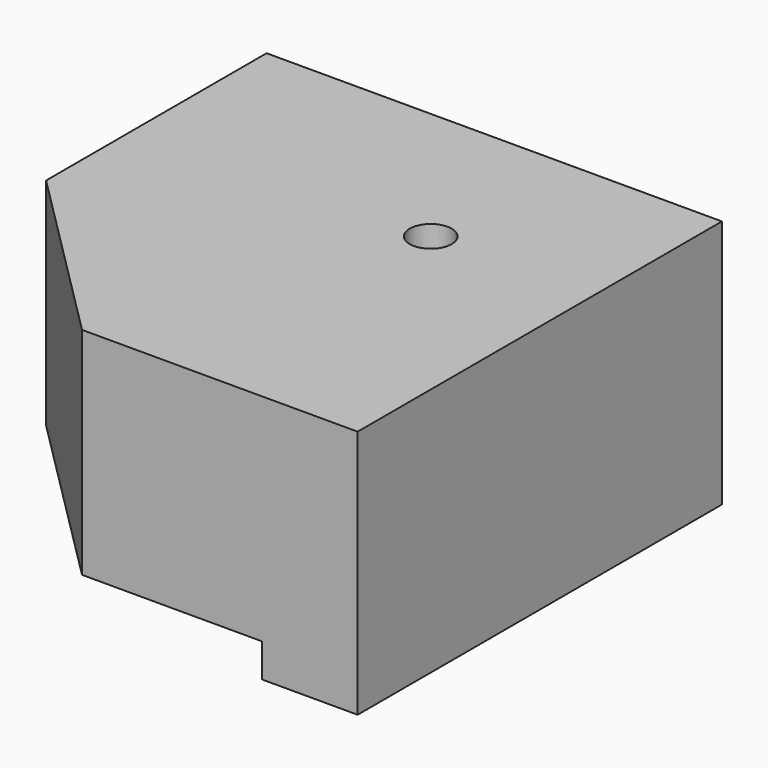
from build123d import *

# Parameters (mm, degrees)
F0_R     = 1.75
F1_DEPTH = 18
F2_DEPTH = 2.8


with BuildPart() as f1:
    # F0 (on Top) → F1 (new body)
    with BuildSketch(Plane.XY):
        Polygon((5.5, -24.5), (5.5, 0), (5.5, 5.5), (0, 5.5), (-24.5, 5.5), (-24.5, -9.5), (-9.5, -24.5), align=None)
        Circle(F0_R, mode=Mode.SUBTRACT)
        Polygon((5.5, 5.5), (5.5, 0), (5.5, -24.5), (13.5, -24.5), (13.5, 0), (13.5, 13.5), (0, 13.5), (-24.5, 13.5), (-24.5, 5.5), (0, 5.5), align=None)
    extrude(amount=F1_DEPTH)

    # F0 (on Top) → F2 (join)
    with BuildSketch(Plane.XY):
        Polygon((5.5, 5.5), (5.5, 0), (5.5, -24.5), (13.5, -24.5), (13.5, 0), (13.5, 13.5), (0, 13.5), (-24.5, 13.5), (-24.5, 5.5), (0, 5.5), align=None)
    extrude(amount=-F2_DEPTH)


with BuildPart() as f3_1:
    # F3: copy of F1
    add(f1.part)


solid = Compound([f1.part, f3_1.part])
